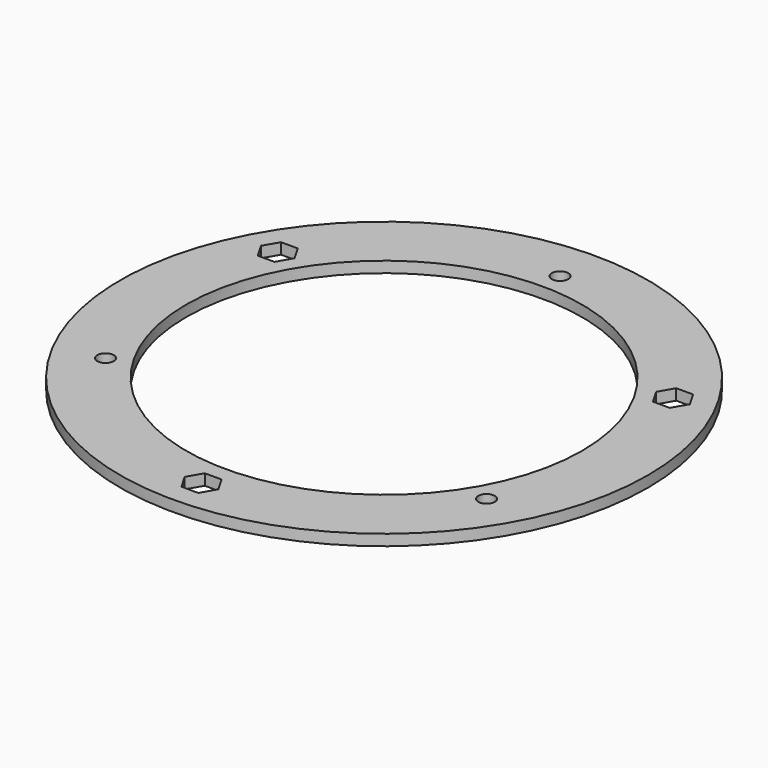
from build123d import *

# Parameters (mm, degrees)
F0_R     = 48
F0_R_2   = 1.5
F0_R_3   = 36
F1_DEPTH = 2


with BuildPart() as f1:
    # F0 (on Top) → F1 (new body)
    with BuildSketch(Plane.XY):
        Circle(F0_R)
        Polygon((-3.059956, -41.5), (-1.529978, -38.85), (1.529978, -38.85), (3.059956, -41.5), (1.529978, -44.15), (-1.529978, -44.15), align=None, mode=Mode.SUBTRACT)
        with Locations((-34.641016, -20)):
            Circle(F0_R_2, mode=Mode.SUBTRACT)
        with Locations((34.641016, -20)):
            Circle(F0_R_2, mode=Mode.SUBTRACT)
        Polygon((-32.880098, 20.75), (-34.410076, 18.1), (-37.470032, 18.1), (-39.000011, 20.75), (-37.470032, 23.4), (-34.410076, 23.4), align=None, mode=Mode.SUBTRACT)
        Circle(F0_R_3, mode=Mode.SUBTRACT)
        Polygon((34.410076, 18.1), (32.880098, 20.75), (34.410076, 23.4), (37.470032, 23.4), (39.000011, 20.75), (37.470032, 18.1), align=None, mode=Mode.SUBTRACT)
        with Locations((0, 40)):
            Circle(F0_R_2, mode=Mode.SUBTRACT)
    extrude(amount=F1_DEPTH)


solid = f1.part
